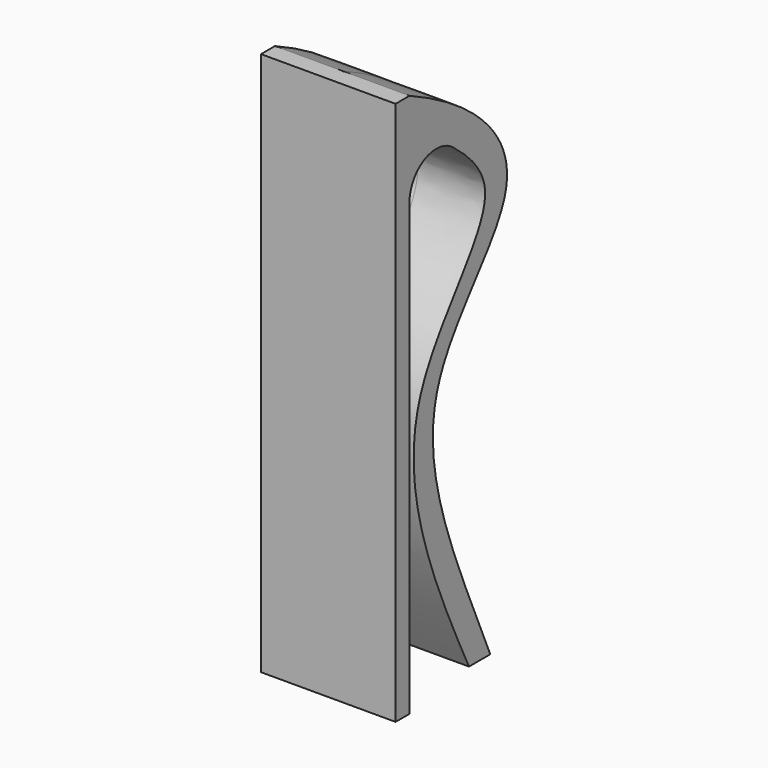
from build123d import *

# Parameters (mm, degrees)
F1_DEPTH = 12.7


with BuildPart() as f1:
    # F0 (on Right) → F1 (new body, symmetric)
    with BuildSketch(Plane.YZ):
        with BuildLine():
            ThreePointArc((0, 33.8357138088), (3.5917126188, 39.5553598401), (10.3037325111, 38.8046673436))
            add(Edge.make_bspline(
                [(10.3037325111, 38.8046673436), (14.7114430925, 35.2975086424), (23.9338495375, 25.3635444813), (-8.692302749, -0.1927579661), (5.7659247482, -31.8573934455), (14.0419742092, -49.0006431937)],
                knots=[0.1168244474, 0.1168244474, 0.1168244474, 0.1168244474, 0.2844839008, 0.6016915831, 1, 1, 1, 1], degree=3))
            Line((14.0419742092, -49.0006431937), (19.0661661327, -49.0006431937))
            add(Edge.make_bspline(
                [(19.0661661327, -49.0006431937), (11.3279098169, -30.8241943749), (-4.6036525703, 0.3050573067), (33.0943124877, 27.207197858), (15.5052188784, 44.4559380412), (0, 51.562)],
                knots=[0, 0, 0, 0, 0.3839772298, 0.6877258948, 1, 1, 1, 1], degree=3))
            Line((0, 51.562), (-3.2790985424, 51.562))
            Line((-3.2790985424, 51.562), (-3.2790985424, -51.153935492))
            Line((-3.2790985424, -51.153935492), (0, -51.153935492))
            Line((0, -51.153935492), (0, 33.8357138088))
        make_face()
    extrude(amount=F1_DEPTH, both=True)


solid = f1.part
